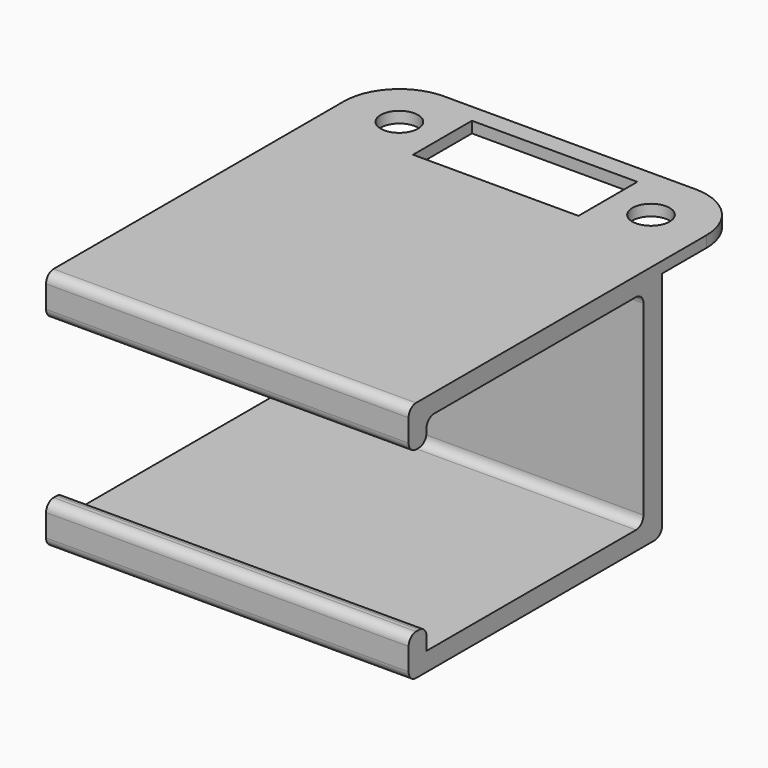
from build123d import *

# Parameters (mm, degrees)
SKETCH_R     = 2
SKETCH_W     = 17.75
SKETCH_H     = 7.9
PAD_DEPTH    = 1.2
PAD001_DEPTH = 26
SKETCH002_W  = 5.95
SKETCH002_H  = 24.8
POCKET_DEPTH = 38.901
FILLET_R     = 1


with BuildPart() as part:
    # Sketch → Pad (new body)
    with BuildSketch(Plane.XY):
        with BuildLine():
            ThreePointArc((-13.5, 5.95), (-19.45, 0), (-13.5, -5.95))
            Line((-13.5, -5.95), (13.5, -5.95))
            ThreePointArc((13.5, -5.95), (19.45, 0), (13.5, 5.95))
            Line((-13.5, 5.95), (13.5, 5.95))
        make_face()
        with Locations((-13.5, 0)):
            Circle(SKETCH_R, mode=Mode.SUBTRACT)
        with Locations((13.5, 0)):
            Circle(SKETCH_R, mode=Mode.SUBTRACT)
        Rectangle(SKETCH_W, SKETCH_H, mode=Mode.SUBTRACT)
    extrude(amount=PAD_DEPTH)

    # Sketch001 (on Face12 of Pad) → Pad001 (join)
    with BuildSketch(Plane.XY.offset(1.2)):
        with BuildLine():
            Line((-19.45, 0), (-19.45, -39.95))
            Line((-19.45, -39.95), (19.45, -39.95))
            Line((19.45, -39.95), (19.45, 0))
            ThreePointArc((13.5, -5.95), (17.707285, -4.207285), (19.45, 0))
            Line((-13.5, -5.95), (13.5, -5.95))
            ThreePointArc((-19.45, 0), (-17.707285, -4.207285), (-13.5, -5.95))
        make_face()
    extrude(amount=-PAD001_DEPTH)

    # Sketch002 (on Face17 of Pad001) → Pocket (cut, through all)
    with BuildSketch(Plane.YZ.offset(19.45)):
        with Locations((-2.975, -12.4)):
            Rectangle(SKETCH002_W, SKETCH002_H)
        Polygon((-39.95, -3.2), (-37.55, -3.2), (-37.55, -0.8), (-8.45, -0.8), (-8.45, -22.8), (-37.55, -22.8), (-37.55, -20.4), (-39.95, -20.4), align=None)
    extrude(amount=-POCKET_DEPTH, mode=Mode.SUBTRACT)

    # Fillet
    fillet_edges = [part.edges().sort_by_distance(p)[0] for p in [
        (0, -8.45, -22.8),
        (0, -8.45, -0.8),
        (0, -37.55, -0.8),
        (0, -37.55, -3.2),
        (0, -39.95, -3.2),
        (0, -37.55, -20.4),
        (0, -39.95, -24.8),
        (0, -5.95, -24.8),
        (0, -39.95, -20.4),
        (0, -39.95, 1.2),
    ]]
    fillet(fillet_edges, radius=FILLET_R)


solid = part.part
